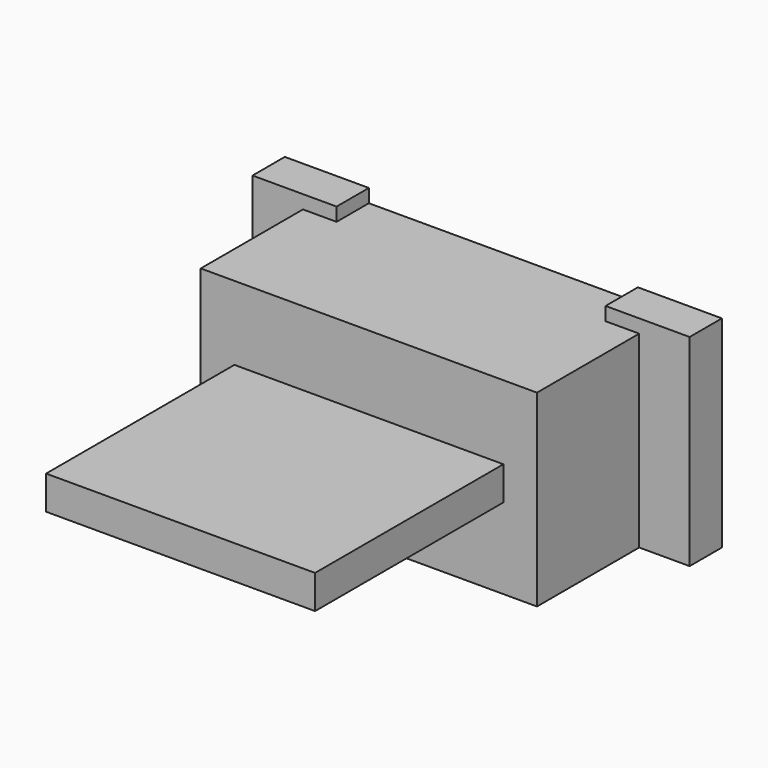
from build123d import *

# Parameters (mm, degrees)
BOX064_W     = 4
BOX064_H     = 0.6
BOX064_DEPTH = 0.2
BOX063_W     = 6.5
BOX063_H     = 0.6
BOX063_DEPTH = 3
BOX066_W     = 4
BOX066_H     = 3.5
BOX066_DEPTH = 0.5
BOX065_W     = 5
BOX065_H     = 2.5
BOX065_DEPTH = 2.8


with BuildPart() as cube040:
    # Box064 → Box064 (new body)
    with BuildSketch(Plane(origin=(-2, -0.6, 2.8), x_dir=(1, 0, 0), z_dir=(0, 0, 1))):
        with Locations((2, 0.3)):
            Rectangle(BOX064_W, BOX064_H)
    extrude(amount=BOX064_DEPTH)


with BuildPart() as cut015:
    # Box063 → Box063 (new body)
    with BuildSketch(Plane(origin=(-3.25, -0.6, 0), x_dir=(1, 0, 0), z_dir=(0, 0, 1))):
        with Locations((3.25, 0.3)):
            Rectangle(BOX063_W, BOX063_H)
    extrude(amount=BOX063_DEPTH)

    # Cut014: cut Cube040
    add(cube040.part, mode=Mode.SUBTRACT)


with BuildPart() as cube026:
    # Box066 → Box066 (new body)
    with BuildSketch(Plane(origin=(-2, -6, 1.2), x_dir=(1, 0, 0), z_dir=(0, 0, 1))):
        with Locations((2, 1.75)):
            Rectangle(BOX066_W, BOX066_H)
    extrude(amount=BOX066_DEPTH)


with BuildPart() as body005:
    # Box065 → Box065 (new body)
    with BuildSketch(Plane(origin=(-2.5, -2.5, 0), x_dir=(1, 0, 0), z_dir=(0, 0, 1))):
        with Locations((2.5, 1.25)):
            Rectangle(BOX065_W, BOX065_H)
    extrude(amount=BOX065_DEPTH)

    # Fusion048: union Cut015, Cube026
    add(cut015.part)
    add(cube026.part)


solid = body005.part
